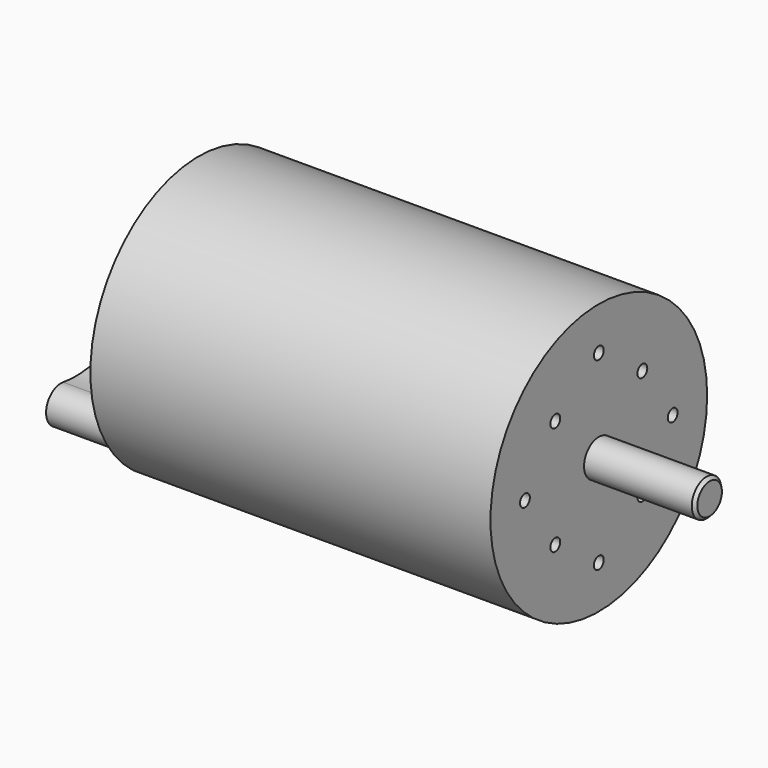
from build123d import *

# Parameters (mm, degrees)
F0_R     = 22
F1_DEPTH = 32.5
F2_R     = 3
F3_DEPTH = 18
F4_R     = 1
F5_DEPTH = 4
F9_DEPTH = 20
F10_SIZE = 0.5


with BuildPart() as f1:
    # F0 (on Right) → F1 (new body, symmetric)
    with BuildSketch(Plane.YZ):
        Circle(F0_R)
    extrude(amount=F1_DEPTH, both=True)

    # F2 (on face) → F3 (join)
    with BuildSketch(Plane.YZ.offset(32.5)):
        Circle(F2_R)
    extrude(amount=F3_DEPTH)

    # F4 (on face) → F5 (cut)
    with BuildSketch(Plane.YZ.offset(32.5)):
        with Locations((0, 15)):
            Circle(F4_R)
        with Locations((-15, 0)):
            Circle(F4_R)
        with Locations((0, -15)):
            Circle(F4_R)
        with Locations((15, 0)):
            Circle(F4_R)
        with Locations((-8.838835, 8.838835)):
            Circle(F4_R)
        with Locations((-8.838835, -8.838835)):
            Circle(F4_R)
        with Locations((8.838835, -8.838835)):
            Circle(F4_R)
        with Locations((8.838835, 8.838835)):
            Circle(F4_R)
    extrude(amount=-F5_DEPTH, mode=Mode.SUBTRACT)

    # F6 (on Front) → F7 (revolve, cut)
    with BuildSketch(Plane.XZ):
        Polygon((-32.5, 6), (-32.5, 3), (-31, 3), (-31, 3.5), (-30.5, 3.5), (-30.5, 6), align=None)
    revolve(axis=Axis((7.880477, 0, 0), (1, 0, 0)), mode=Mode.SUBTRACT)

    # F8 (on face) → F9 (join)
    with BuildSketch(Plane(origin=(-32.5, 0, 0), x_dir=(0, -1, 0), z_dir=(-1, 0, 0))):
        with BuildLine():
            ThreePointArc((-3.473684, -21.724031), (0, -22), (3.473684, -21.724031))
            ThreePointArc((3.473684, -21.724031), (5.962368, -18.287979), (2.526316, -15.799295))
            ThreePointArc((2.526316, -15.799295), (0, -16), (-2.526316, -15.799295))
            ThreePointArc((-2.526316, -15.799295), (-5.962368, -18.287979), (-3.473684, -21.724031))
        make_face()
    extrude(amount=F9_DEPTH)

    # F10
    f10_edges = [f1.edges().sort_by_distance(p)[0] for p in [
        (50.5, -3, 0),
    ]]
    chamfer(f10_edges, length=F10_SIZE)


solid = f1.part
